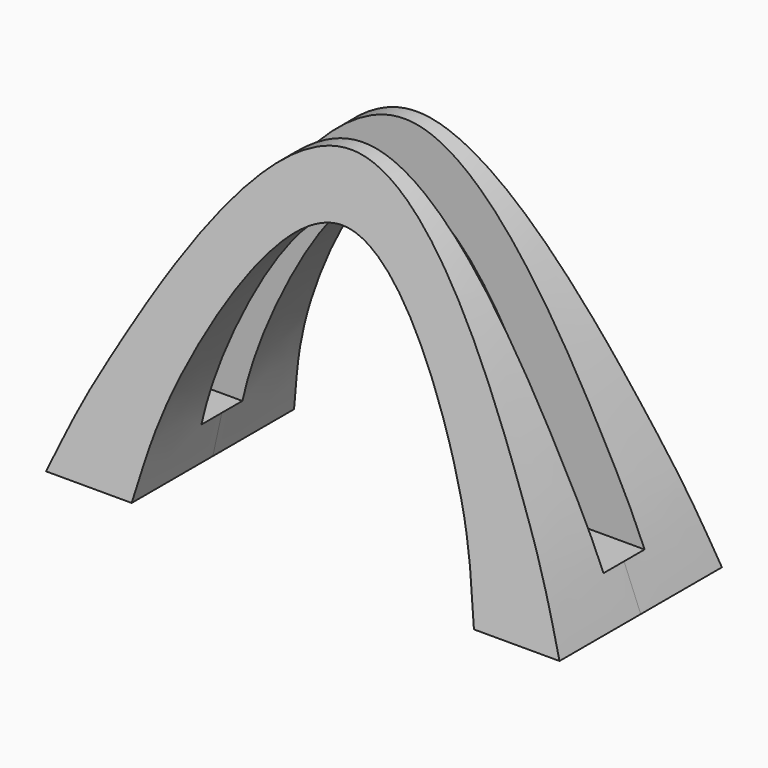
from build123d import *

# Parameters (mm, degrees)
F2_DEPTH      = 29.6541303555
F2_DEPTH_BACK = 29.6541303555
F3_START      = -75.0010001
F3_DEPTH      = 150.0020002


with BuildPart() as f2:
    # F1 (on Front) → F2 (new body, two sides)
    with BuildSketch(Plane.XZ) as f2_sk:
        with BuildLine():
            add(Edge.make_bspline(
                [(-75, 0), (-68.3015659451, 16.8462786824), (-62.8917352606, 28.8084242895), (0, 142.406613425), (62.8917352606, 28.8084242895), (68.3015659451, 16.8462786824), (75, 0)],
                knots=[0, 0, 0, 0, 0.202165509, 0.5, 0.797834491, 1, 1, 1, 1], degree=3))
            Line((-75, 0), (-50, 0))
            add(Edge.make_bspline(
                [(-50, 0), (-47.3766575955, 11.9817722786), (-44.294415081, 30.9694281977), (0, 110.7688822215), (44.294415081, 30.9694281977), (47.3766575955, 11.9817722786), (50, 0)],
                knots=[0, 0, 0, 0, 0.2155319552, 0.5, 0.7844680448, 1, 1, 1, 1], degree=3))
            Line((50, 0), (75, 0))
        make_face()
    extrude(amount=F2_DEPTH)
    extrude(f2_sk.sketch, amount=-F2_DEPTH_BACK)

    # F0 (on Right) → F3 (intersect)
    with BuildSketch(Plane.YZ.offset(F3_START)):
        Polygon((-12.0214322846, 100), (-29.6541303555, 0), (29.6541303555, 0), (12.0214322846, 100), (7.5, 100), (7.5, 12), (-7.5, 12), (-7.5, 100), align=None)
    extrude(amount=F3_DEPTH, mode=Mode.INTERSECT)


solid = f2.part
